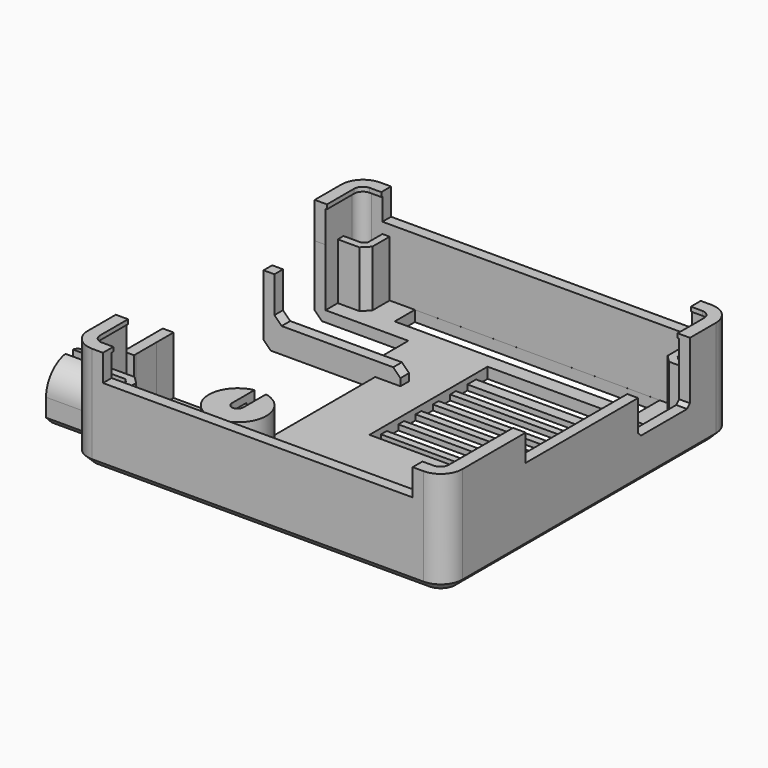
from build123d import *

# Parameters (mm, degrees)
PAD011_DEPTH         = 14.5
POCKET014_DEPTH      = 13
SKETCH029_W          = 22
SKETCH029_H          = 20.5
SKETCH029_W_2        = 34
SKETCH029_H_2        = 6
POCKET015_DEPTH      = 0.75
SKETCH039_R          = 4
PAD012_DEPTH         = 5
SKETCH034_R          = 2.7
POCKET016_DEPTH      = 5.5
PAD013_DEPTH         = 7
SKETCH036_R          = 2.6
POCKET017_DEPTH      = 8
POCKET018_DEPTH      = 10
SKETCH031_W          = 13
SKETCH031_H          = 7.374969
SKETCH031_W_2        = 3
SKETCH031_H_2        = 7.5
SKETCH031_W_3        = 8.5
SKETCH031_H_3        = 3.5
SKETCH031_W_4        = 22
SKETCH031_H_4        = 2
SKETCH031_W_5        = 34
POCKET019_DEPTH      = 1.501
POCKET019_DEPTH_BACK = 13.001
PAD014_DEPTH         = 0.6
SKETCH030_W          = 18
SKETCH030_H          = 1.5
PAD015_DEPTH         = 2
PAD016_DEPTH         = 7.8
POCKET020_DEPTH      = 5
SKETCH041_W          = 34.5276610242
SKETCH041_H          = 5
POCKET021_DEPTH      = 5
SKETCH042_W          = 43
SKETCH042_H          = 3.7
POCKET022_DEPTH      = 50.0023960006
CHAMFER004_SIZE      = 1


with BuildPart() as part:
    # Sketch026 → Pad011 (new body)
    with BuildSketch(Plane.XY):
        with BuildLine():
            ThreePointArc((-22.9999133209, 25.0013960005), (-25.1212336645, 24.1227163441), (-25.9999133209, 22.0013960005))
            Line((-25.9999133209, 22.0013960005), (-25.9953571512, -22.0003386357))
            ThreePointArc((-25.9953571512, -22.0003386357), (-25.1325542789, -24.1056624677), (-23.0404315262, -25))
            Line((-23.0404315262, -25), (23, -25))
            ThreePointArc((23, -25), (25.1213203436, -24.1213203436), (26, -22))
            Line((26, 22.0013960005), (26, -22))
            ThreePointArc((26, 22.0013960005), (25.1213203436, 24.1227163441), (23, 25.0013960005))
            Line((-22.9999133209, 25.0013960005), (23, 25.0013960005))
        make_face()
    extrude(amount=PAD011_DEPTH)

    # Sketch027 (on Face10 of Pad011) → Pocket014 (cut)
    with BuildSketch(Plane.XY.offset(14.5)):
        with BuildLine():
            ThreePointArc((-22.9999133209, 23.5013960005), (-24.0605734927, 23.0620561723), (-24.4999133209, 22.0013960005))
            Line((-24.4999133209, 22.0013960005), (-24.4953571512, -22.0003386357))
            ThreePointArc((-24.4953571512, -22.0003386357), (-24.056017323, -23.0609988074), (-22.9953571512, -23.5003386357))
            Line((23, -23.5), (-22.9953571512, -23.5003386357))
            ThreePointArc((23, -23.5), (24.0606601718, -23.0606601718), (24.5, -22))
            Line((24.5, -22), (24.5, 22.0013960005))
            ThreePointArc((24.5, 22.0013960005), (24.0606601718, 23.0620561723), (23, 23.5013960005))
            Line((23, 23.5013960005), (-22.9999133209, 23.5013960005))
        make_face()
    extrude(amount=-POCKET014_DEPTH, mode=Mode.SUBTRACT)

    # Sketch029 (on Face19 of Pocket014) → Pocket015 (cut)
    with BuildSketch(Plane.XY.offset(1.5)):
        with Locations((8.5, 7.75)):
            Rectangle(SKETCH029_W, SKETCH029_H)
        with Locations((0, -20.5)):
            Rectangle(SKETCH029_W_2, SKETCH029_H_2)
    extrude(amount=-POCKET015_DEPTH, mode=Mode.SUBTRACT)

    # Sketch039 (on Face19 of Pocket015) → Pad012 (join)
    with BuildSketch(Plane.XY.offset(1.5)):
        with Locations((-12, -13.5)):
            Circle(SKETCH039_R)
    extrude(amount=PAD012_DEPTH)

    # Sketch034 (on Face4 of Pad012) → Pocket016 (cut)
    with BuildSketch(Plane(origin=(0, 0, 0), x_dir=(1, 0, 0), z_dir=(0, 0, -1))):
        with Locations((-12, 13.5)):
            Circle(SKETCH034_R)
    extrude(amount=-POCKET016_DEPTH, mode=Mode.SUBTRACT)

    # Sketch035 (on Face9 of Pocket016) → Pad013 (join)
    with BuildSketch(Plane(origin=(-25.9976349026, -0.002691931, 0), x_dir=(0.0001035452, -0.9999999946, 0), z_dir=(-0.9999999946, -0.0001035452, 0))):
        with BuildLine():
            ThreePointArc((20.5, 3.5), (16.5, 7.5), (12.5, 3.5))
            Line((12.5, 3.5), (12.5, 0))
            Line((20.5, 0), (12.5, 0))
            Line((20.5, 3.5), (20.5, 0))
        make_face()
    extrude(amount=PAD013_DEPTH)

    # Sketch036 (on Face21 of Pad013) → Pocket017 (cut)
    with BuildSketch(Plane(origin=(-32.9976348651, -0.0034167476, 0), x_dir=(0.0001035452, -0.9999999946, 0), z_dir=(-0.9999999946, -0.0001035452, 0))):
        with Locations((16.5, 3.5)):
            Circle(SKETCH036_R)
    extrude(amount=-POCKET017_DEPTH, mode=Mode.SUBTRACT)

    # Sketch037 (on Face12 of Pocket017) → Pocket018 (cut)
    with BuildSketch(Plane(origin=(-32.9976348651, -0.0034167476, 0), x_dir=(0.0001035452, -0.9999999946, 0), z_dir=(-0.9999999946, -0.0001035452, 0))):
        with BuildLine():
            ThreePointArc((15.85, 3.5), (16.5, 2.85), (17.15, 3.5))
            Line((17.15, 3.5), (17.15, 14.5))
            Line((17.15, 14.5), (15.85, 14.5))
            Line((15.85, 3.5), (15.85, 14.5))
        make_face()
    extrude(amount=-POCKET018_DEPTH, mode=Mode.SUBTRACT)

    # Sketch031 (on Face31 of Pocket018) → Pocket019 (cut, two sides)
    with BuildSketch(Plane.XY.offset(1.5)) as pocket019_sk:
        with BuildLine():
            Line((-26, 8.5), (-10.5, 8.5))
            Line((-10.5, 8.5), (-10.5, -9))
            Line((-10.5, -9), (-11.2, -9))
            Line((-11.2, -9), (-11.2, -13.5))
            ThreePointArc((-12.8, -13.5), (-12, -14.3), (-11.2, -13.5))
            Line((-12.8, -9), (-12.8, -13.5))
            Line((-12.8, -9), (-26, -9))
            Line((-26, -9), (-26, 8.5))
        make_face()
        with Locations((-19.5, 13.6874845)):
            Rectangle(SKETCH031_W, SKETCH031_H)
        with Locations((23, -11.75)):
            Rectangle(SKETCH031_W_2, SKETCH031_H_2)
        with Locations((-20.25, -13.75)):
            Rectangle(SKETCH031_W_3, SKETCH031_H_3)
        Polygon((-17, -17.5), (-17, -20), (-16.5, -20), (-16.5, -18), (16.5, -18), (16.5, -20), (17, -20), (17, -17.5), align=None)
        Polygon((-17, -21), (-16.5, -21), (-16.5, -23), (16.5, -23), (16.5, -21), (17, -21), (17, -23.5), (-17, -23.5), align=None)
        with Locations((8.5, -1.5)):
            Rectangle(SKETCH031_W_4, SKETCH031_H_4)
        with Locations((8.5, 1.5)):
            Rectangle(SKETCH031_W_4, SKETCH031_H_4)
        with Locations((8.5, 4.5)):
            Rectangle(SKETCH031_W_4, SKETCH031_H_4)
        with Locations((8.5, 7.5)):
            Rectangle(SKETCH031_W_4, SKETCH031_H_4)
        with Locations((8.5, 10.5)):
            Rectangle(SKETCH031_W_4, SKETCH031_H_4)
        with Locations((8.5, 13.5)):
            Rectangle(SKETCH031_W_4, SKETCH031_H_4)
        with Locations((8.5, 17)):
            Rectangle(SKETCH031_W_4, SKETCH031_H_4)
        with Locations((0, 21.75)):
            Rectangle(SKETCH031_W_5, SKETCH031_H_3)
    extrude(amount=-POCKET019_DEPTH, mode=Mode.SUBTRACT)
    extrude(pocket019_sk.sketch, amount=POCKET019_DEPTH_BACK, mode=Mode.SUBTRACT)

    # Sketch038 (on Face5 of Pocket019) → Pad014 (join)
    with BuildSketch(Plane.XY.offset(14.5)):
        with BuildLine():
            Line((-25.0993360961, 22.1008187758), (-25.0947799265, -22.0009158604))
            ThreePointArc((-25.0947799265, -22.0009158604), (-24.5089934889, -23.4151294228), (-23.0947799265, -24.0009158604))
            Line((23.0228003784, -24.0994227752), (-23.0947799265, -24.0009158604))
            ThreePointArc((23.0228003784, -24.0994227752), (24.4370139408, -23.5136363376), (25.0228003784, -22.0994227752))
            Line((25.0228003784, -22.0994227752), (25.0994227752, 22.0780183973))
            ThreePointArc((25.0994227752, 22.0780183973), (24.5136363376, 23.4922319597), (23.0994227752, 24.0780183973))
            Line((23.0994227752, 24.0780183973), (-23.0993360961, 24.1008187758))
            ThreePointArc((-23.0993360961, 24.1008187758), (-24.5135496585, 23.5150323381), (-25.0993360961, 22.1008187758))
        make_face()
        with BuildLine():
            ThreePointArc((-23.0993360961, 23.3008187758), (-23.9478642335, 22.9493469132), (-24.2993360961, 22.1008187758))
            Line((-24.2993360961, 22.1008187758), (-24.2947799265, -22.0009158604))
            ThreePointArc((-24.2947799265, -22.0009158604), (-23.9433080639, -22.8494439979), (-23.0947799265, -23.2009158604))
            Line((23.0228003784, -23.2994227752), (-23.0947799265, -23.2009158604))
            ThreePointArc((23.0228003784, -23.2994227752), (23.8713285159, -22.9479509126), (24.2228003784, -22.0994227752))
            Line((24.2228003784, -22.0994227752), (24.2994227752, 22.0780183973))
            ThreePointArc((24.2994227752, 22.0780183973), (23.9479509126, 22.9265465348), (23.0994227752, 23.2780183973))
            Line((23.0994227752, 23.2780183973), (-23.0993360961, 23.3008187758))
        make_face(mode=Mode.SUBTRACT)
    extrude(amount=-PAD014_DEPTH)

    # Sketch030 (on Face72 of Pad014) → Pad015 (join)
    with BuildSketch(Plane.XY.offset(1.5)):
        with Locations((-16, 9.25)):
            Rectangle(SKETCH030_W, SKETCH030_H)
    extrude(amount=PAD015_DEPTH)

    # Sketch028 (on Face82 of Pad015) → Pad016 (join)
    with BuildSketch(Plane.XY.offset(1.5)):
        Polygon((20.5, -24.5), (21.5, -24.5), (21.5, -21), (22, -20.5), (25.5, -20.5), (25.5, -19.5), (21.5, -19.5), (20.5, -20.5), align=None)
        Polygon((-20.5, -24.5), (-21.5, -24.5), (-21.5, -21), (-22, -20.5), (-25.5, -20.5), (-25.5, -19.5), (-21.5, -19.5), (-20.5, -20.5), align=None)
        Polygon((20.5, 24.5), (21.5, 24.5), (21.5, 21), (22, 20.5), (25.5, 20.5), (25.5, 19.5), (21.5, 19.5), (20.5, 20.5), align=None)
        Polygon((-20.5, 24.5), (-21.5, 24.5), (-21.5, 21), (-22, 20.5), (-25.5, 20.5), (-25.5, 19.5), (-21.5, 19.5), (-20.5, 20.5), align=None)
    extrude(amount=PAD016_DEPTH)

    # Sketch040 (on Face2 of Pad016) → Pocket020 (cut)
    with BuildSketch(Plane.YZ.offset(26)):
        Polygon((-11, 10.8), (8.5, 10.8), (8.5, 6.5), (9, 6), (17, 6), (17.5, 6.5), (17.5, 14.5), (1.5, 14.5), (-11, 14.5), align=None)
    extrude(amount=-POCKET020_DEPTH, mode=Mode.SUBTRACT)

    # Sketch041 (on Face27 of Pocket020) → Pocket021 (cut)
    with BuildSketch(Plane(origin=(-25.9976349026, -0.002691931, 0), x_dir=(0.0001035452, -0.9999999946, 0), z_dir=(-0.9999999946, -0.0001035452, 0))):
        with Locations((-0.1138305121, 12)):
            Rectangle(SKETCH041_W, SKETCH041_H)
    extrude(amount=-POCKET021_DEPTH, mode=Mode.SUBTRACT)

    # Sketch042 (on Face3 of Pocket021) → Pocket022 (cut, through all)
    with BuildSketch(Plane(origin=(0, 25.0013960005, 0), x_dir=(-1, 0, 0), z_dir=(0, 1, 0))):
        with Locations((0, 12.65)):
            Rectangle(SKETCH042_W, SKETCH042_H)
    extrude(amount=-POCKET022_DEPTH, mode=Mode.SUBTRACT)

    # Chamfer004
    chamfer004_edges = [part.edges().sort_by_distance(p)[0] for p in [
        (-0.020216, -25, 0),
        (-24.498593, 9.25, 3.5),
        (-7, 9.25, 3.5),
        (-25.996522, -10.751346, 0),
        (-29.495512, -20.503054, 0),
        (-29.496341, -12.503054, 0),
        (-25.998593, 9.25, 0),
    ]]
    chamfer(chamfer004_edges, length=CHAMFER004_SIZE)


with BuildPart() as part_1:
    # Body003 placement: moved
    add(part.part.moved(Location((0, 0, -11.5))))


solid = part_1.part
